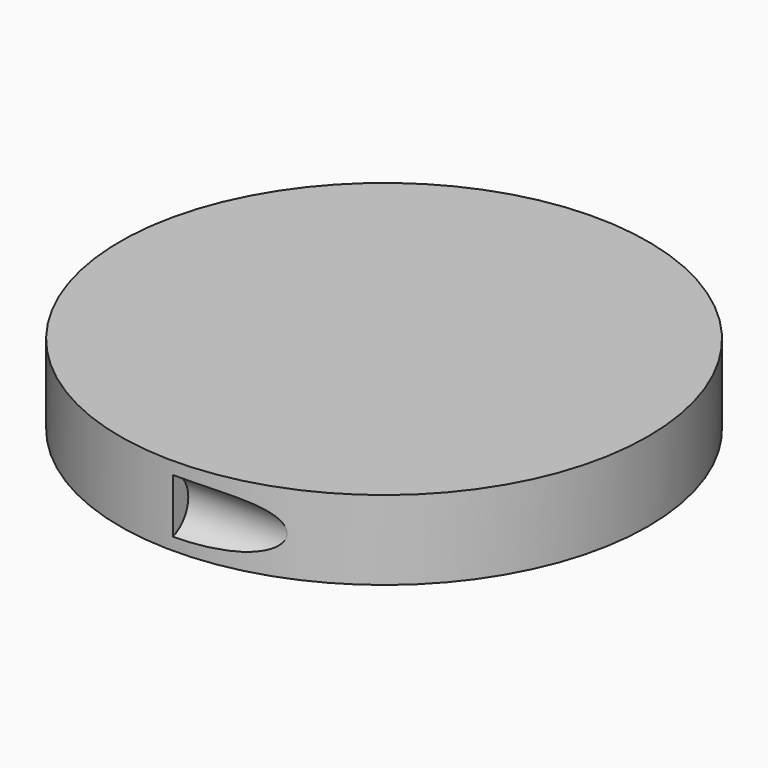
from build123d import *

# Parameters (mm, degrees)
F0_R     = 27.5
F1_DEPTH = 4.125
F2_R     = 3
F3_DEPTH = 25


with BuildPart() as f1:
    # F0 (on Top) → F1 (new body, symmetric)
    with BuildSketch(Plane.XY):
        Circle(F0_R)
    extrude(amount=F1_DEPTH, both=True)

    # F2 (on Right) → F3 (cut)
    with BuildSketch(Plane.YZ):
        with Locations((-28.5, 0)):
            Circle(F2_R)
    extrude(amount=F3_DEPTH, mode=Mode.SUBTRACT)


solid = f1.part
